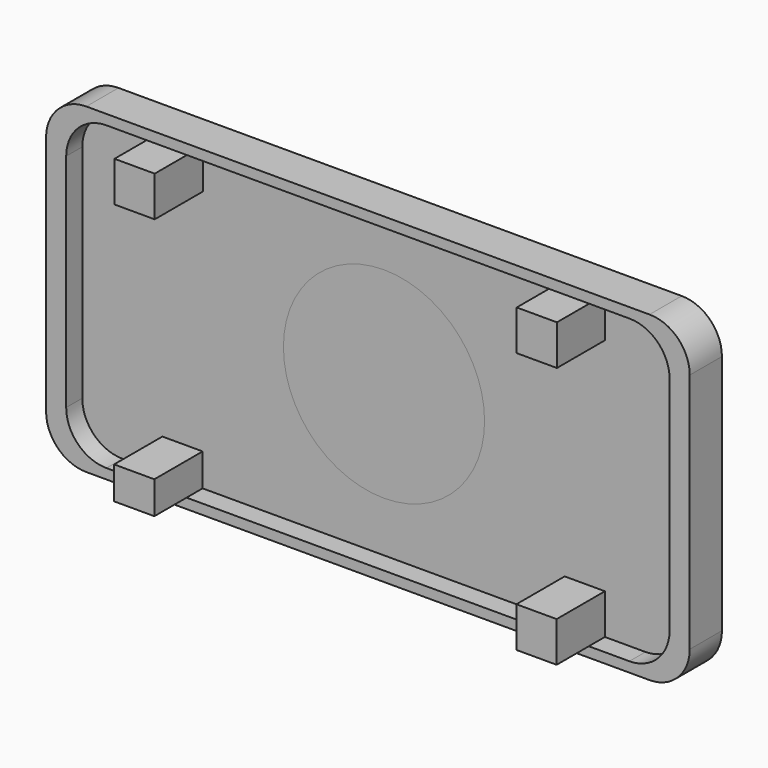
from build123d import *

# Parameters (mm, degrees)
F1_DEPTH = 6.35
F2_DEPTH = 12.7
F3_DEPTH = 6.35
F4_W     = 12.7
F4_H     = 10.270933032
F5_DEPTH = 25.4
F4_H_2   = 12.7


with BuildPart() as f1:
    # F0 (on Front) → F1 (new body)
    with BuildSketch(Plane.XZ):
        with BuildLine():
            Line((0, -47.625), (82.55, -47.625))
            ThreePointArc((82.55, -47.625), (91.5302561211, -43.9052561211), (95.25, -34.925))
            Line((95.25, -34.925), (95.25, 34.925))
            ThreePointArc((95.25, 34.925), (91.5302561211, 43.9052561211), (82.55, 47.625))
            Line((82.55, 47.625), (0, 47.625))
            Line((0, 47.625), (0, 31.75))
            ThreePointArc((0, 31.75), (22.4506403027, 22.4506403027), (31.75, 0))
            ThreePointArc((31.75, 0), (22.4506403027, -22.4506403027), (0, -31.75))
            Line((0, -31.75), (0, -47.625))
        make_face()
        with BuildLine():
            Line((-82.55, -47.625), (0, -47.625))
            Line((0, -47.625), (0, -31.75))
            ThreePointArc((0, -31.75), (-31.75, 0), (0, 31.75))
            Line((0, 31.75), (0, 47.625))
            Line((0, 47.625), (-82.55, 47.625))
            ThreePointArc((-82.55, 47.625), (-91.5302561211, 43.9052561211), (-95.25, 34.925))
            Line((-95.25, 34.925), (-95.25, -34.925))
            ThreePointArc((-95.25, -34.925), (-91.5302561211, -43.9052561211), (-82.55, -47.625))
        make_face()
    extrude(amount=F1_DEPTH)


with BuildPart() as f2:
    # F0 (on Front) → F2 (new body)
    with BuildSketch(Plane.XZ):
        with BuildLine():
            Line((-88.9, -50.8), (88.9, -50.8))
            ThreePointArc((88.9, -50.8), (97.8802561211, -47.0802561211), (101.6, -38.1))
            Line((101.6, -38.1), (101.6, 38.1))
            ThreePointArc((101.6, 38.1), (97.8802561211, 47.0802561211), (88.9, 50.8))
            Line((88.9, 50.8), (-88.9, 50.8))
            ThreePointArc((-88.9, 50.8), (-97.8802561211, 47.0802561211), (-101.6, 38.1))
            Line((-101.6, 38.1), (-101.6, -38.1))
            ThreePointArc((-101.6, -38.1), (-97.8802561211, -47.0802561211), (-88.9, -50.8))
        make_face()
        with BuildLine():
            ThreePointArc((95.25, -34.925), (91.5302561211, -43.9052561211), (82.55, -47.625))
            Line((82.55, -47.625), (0, -47.625))
            Line((0, -47.625), (-82.55, -47.625))
            ThreePointArc((-82.55, -47.625), (-91.5302561211, -43.9052561211), (-95.25, -34.925))
            Line((-95.25, -34.925), (-95.25, 34.925))
            ThreePointArc((-95.25, 34.925), (-91.5302561211, 43.9052561211), (-82.55, 47.625))
            Line((-82.55, 47.625), (0, 47.625))
            Line((0, 47.625), (82.55, 47.625))
            ThreePointArc((82.55, 47.625), (91.5302561211, 43.9052561211), (95.25, 34.925))
            Line((95.25, 34.925), (95.25, -34.925))
        make_face(mode=Mode.SUBTRACT)
    extrude(amount=F2_DEPTH)


with BuildPart() as f3:
    # F0 (on Front) → F3 (new body)
    with BuildSketch(Plane.XZ):
        with BuildLine():
            ThreePointArc((0, 31.75), (-31.75, 0), (0, -31.75))
            Line((0, -31.75), (0, 31.75))
        make_face()
        with BuildLine():
            Line((0, 31.75), (0, -31.75))
            ThreePointArc((0, -31.75), (22.4506403027, -22.4506403027), (31.75, 0))
            ThreePointArc((31.75, 0), (22.4506403027, 22.4506403027), (0, 31.75))
        make_face()
    extrude(amount=F3_DEPTH)


with BuildPart() as f5:
    # F4 (on face) → F5 (new body)
    with BuildSketch(Plane.XZ):
        with Locations((-63.6109358191, -42.489533484)):
            Rectangle(F4_W, F4_H)
    extrude(amount=F5_DEPTH)


with BuildPart() as f5b:
    # F4 (on face) → F5, piece 2 (new body)
    with BuildSketch(Plane.XZ):
        with Locations((63.4876383305, 41.2499686539)):
            Rectangle(F4_W, F4_H_2)
    extrude(amount=F5_DEPTH)


with BuildPart() as f5c:
    # F4 (on face) → F5, piece 3 (new body)
    with BuildSketch(Plane.XZ):
        with Locations((63.3915146649, -41.2662359118)):
            Rectangle(F4_W, F4_H_2)
    extrude(amount=F5_DEPTH)


with BuildPart() as f5d:
    # F4 (on face) → F5, piece 4 (new body)
    with BuildSketch(Plane.XZ):
        with Locations((-63.4990579009, 41.2708999753)):
            Rectangle(F4_W, F4_H_2)
    extrude(amount=F5_DEPTH)


solid = Compound([f1.part, f2.part, f3.part, f5.part, f5b.part, f5c.part, f5d.part])
